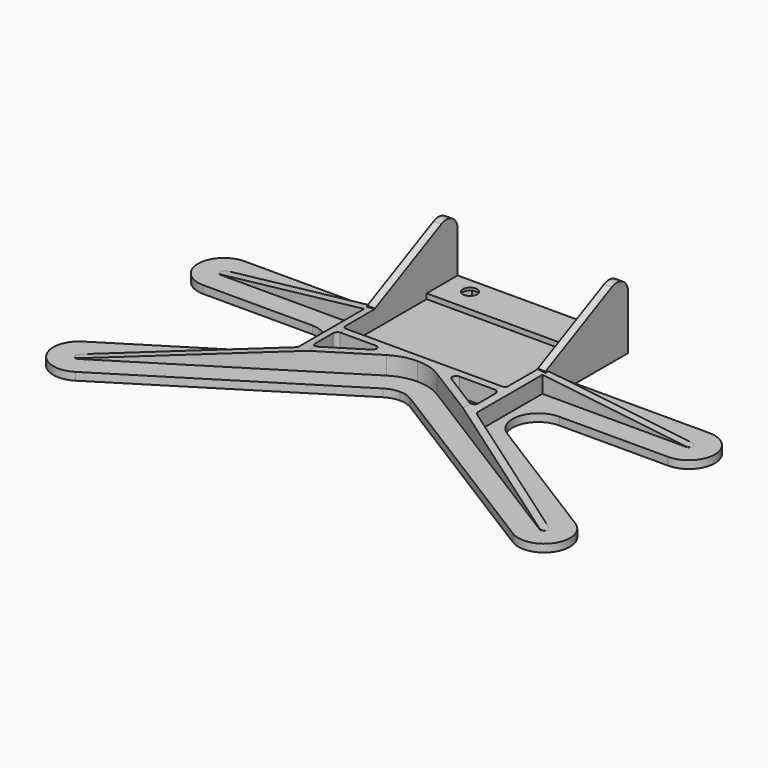
from build123d import *

# Parameters (mm, degrees)
PAD_DEPTH            = 3
PAD001_DEPTH         = 10
SKETCH008_W          = 31.5
SKETCH008_H          = 15
PAD004_DEPTH         = 5
SKETCH009_R          = 2.75
POCKET002_DEPTH      = 313.05051685
POCKET002_DEPTH_BACK = 323.05051685
POCKET003_DEPTH      = 353.05051685
POCKET003_DEPTH_BACK = 393.05051685
POCKET004_DEPTH      = 4
PAD005_DEPTH         = 3


with BuildPart() as part:
    # Sketch → Pad (new body)
    with BuildSketch(Plane.XY):
        with BuildLine():
            ThreePointArc((89.9999996665, -10), (100, -1.98e-08), (89.9999997062, 10))
            Line((89.9999997062, 10), (31.5, 10))
            Line((31.5, 10), (31.5, 40))
            Line((31.5, 40), (0, 40))
            Line((0, 40), (0, 10))
            Line((0, 10), (0, -27.3349528301))
            ThreePointArc((5.3000111055, -28.854983356), (2.7568374325, -27.7224688967), (0, -27.3349528301))
            Line((84.6999795851, -78.4799636558), (5.3000111055, -28.854983356))
            ThreePointArc((84.6999795851, -78.4799636557), (98.4799840149, -75.2999878403), (95.2999552657, -61.5199956261))
            Line((42.4359754567, -28.4800082454), (95.2999552657, -61.5199956261))
            ThreePointArc((47.7359245737, -10), (38.1234305175, -17.2431977049), (42.4359754568, -28.4800082453))
            Line((47.7359245737, -10), (89.9999996665, -10))
        make_face()
    pad = extrude(amount=PAD_DEPTH)

    # Sketch001 → Pad001 (join)
    with BuildSketch(Plane.XY):
        with BuildLine():
            ThreePointArc((89.2050015192, -71.2719974118), (91.2719974827, -70.7949983672), (90.7949982537, -68.7280024463))
            Line((90.7949982537, -68.7280024463), (35.2050028881, -33.9842553428))
            ThreePointArc((34.5, -32.7122571332), (34.6880366632, -33.4394105688), (35.2050028881, -33.9842553428))
            Line((34.5, -32.7122571332), (34.5, -1.5))
            Line((34.5, -1.5), (89.9999999914, -1.5))
            ThreePointArc((89.9999999914, -1.5), (91.5, -1.09e-08), (90.0000000131, 1.5))
            Line((90.0000000131, 1.5), (34.5, 1.5))
            Line((34.5, 1.5), (34.5, 40))
            Line((34.5, 40), (31.5, 40))
            Line((31.5, 40), (31.5, -14.334953275))
            ThreePointArc((30.0000000301, -15.8349528301), (31.0606600252, -15.3956131485), (31.5, -14.334953275))
            Line((0, -15.8349528301), (30.0000000301, -15.8349528301))
            Line((0, -18.8349528301), (0, -15.8349528301))
            ThreePointArc((9.8049805408, -21.6469843002), (5.1001265767, -19.5518510506), (0, -18.8349528301))
            Line((89.2050015192, -71.2719974118), (9.8049805408, -21.6469843002))
        make_face()
        with BuildLine():
            Line((15.4013148944, -21.6069503467), (29.2050008044, -30.2342540405))
            ThreePointArc((29.2050008044, -30.2342540405), (30.727152292, -30.2742210781), (31.5, -28.9622573074))
            Line((31.5, -20.3349477146), (31.5, -28.9622573074))
            ThreePointArc((31.5, -20.3349477146), (31.0606583181, -19.2742908047), (29.9999998727, -18.8349528301))
            Line((16.1963133258, -18.8349528301), (29.9999998727, -18.8349528301))
            ThreePointArc((16.1963133258, -18.8349528301), (14.7544400888, -19.9214290586), (15.4013148944, -21.6069503467))
        make_face(mode=Mode.SUBTRACT)
    pad001 = extrude(amount=PAD001_DEPTH)

    # Sketch008 → Pad004 (join)
    with BuildSketch(Plane(origin=(0, 30, 0), x_dir=(1, 0, 0), z_dir=(0, 0, 1))):
        with Locations((15.75, 2.5)):
            Rectangle(SKETCH008_W, SKETCH008_H)
    pad004 = extrude(amount=PAD004_DEPTH)

    # Sketch009 → Pocket002 (cut, two sides)
    with BuildSketch(Plane(origin=(0, 30, 0), x_dir=(1, 0, 0), z_dir=(0, 0, 1))) as pocket002_sk:
        with Locations((21.9, 4)):
            Circle(SKETCH009_R)
    pocket002 = extrude(amount=-POCKET002_DEPTH, mode=Mode.SUBTRACT) + extrude(pocket002_sk.sketch, amount=POCKET002_DEPTH_BACK, mode=Mode.SUBTRACT)

    # Sketch010 → Pocket003 (cut, two sides)
    with BuildSketch(Plane.XZ) as pocket003_sk:
        Polygon((91.5, 3), (30, 10), (91.5, 10), align=None)
    pocket003 = extrude(amount=-POCKET003_DEPTH, mode=Mode.SUBTRACT) + extrude(pocket003_sk.sketch, amount=POCKET003_DEPTH_BACK, mode=Mode.SUBTRACT)

    # Sketch012 → Pocket004 (cut)
    with BuildSketch(Plane(origin=(0, 30, 0), x_dir=(1, 0, 0), z_dir=(0, 0, 1))):
        Polygon((23.9495934556, 7.55), (19.8504065444, 7.55), (17.8008130888, 4), (19.8504065444, 0.45), (23.9495934556, 0.45), (25.9991869112, 4), align=None)
    pocket004 = extrude(amount=POCKET004_DEPTH, mode=Mode.SUBTRACT)

    # Sketch013 → Pad005 (join)
    with BuildSketch(Plane.YZ.offset(31.5)):
        with BuildLine():
            ThreePointArc((40, 20.7833465364), (37.421342396, 25.4323336669), (32.1121450336, 25.706157964))
            Line((32.1121450336, 25.706157964), (0, 10))
            Line((0, 10), (0, 0))
            Line((0, 0), (40, 0))
            Line((40, 20.7833465364), (40, 0))
        make_face()
    pad005 = extrude(amount=PAD005_DEPTH)

    # Mirrored: Pad, Pad001, Pad004, Pocket002, Pocket003, Pocket004, Pad005 across Sketch V_Axis
    add(pad.mirror(Plane(origin=(0, 0, 0), x_dir=(0, 0, 1), z_dir=(1, 0, 0))))
    add(pad001.mirror(Plane(origin=(0, 0, 0), x_dir=(0, 0, 1), z_dir=(1, 0, 0))))
    add(pad004.mirror(Plane(origin=(0, 0, 0), x_dir=(0, 0, 1), z_dir=(1, 0, 0))))
    add(pocket002.mirror(Plane(origin=(0, 0, 0), x_dir=(0, 0, 1), z_dir=(1, 0, 0))), mode=Mode.SUBTRACT)
    add(pocket003.mirror(Plane(origin=(0, 0, 0), x_dir=(0, 0, 1), z_dir=(1, 0, 0))), mode=Mode.SUBTRACT)
    add(pocket004.mirror(Plane(origin=(0, 0, 0), x_dir=(0, 0, 1), z_dir=(1, 0, 0))), mode=Mode.SUBTRACT)
    add(pad005.mirror(Plane(origin=(0, 0, 0), x_dir=(0, 0, 1), z_dir=(1, 0, 0))))


solid = part.part
